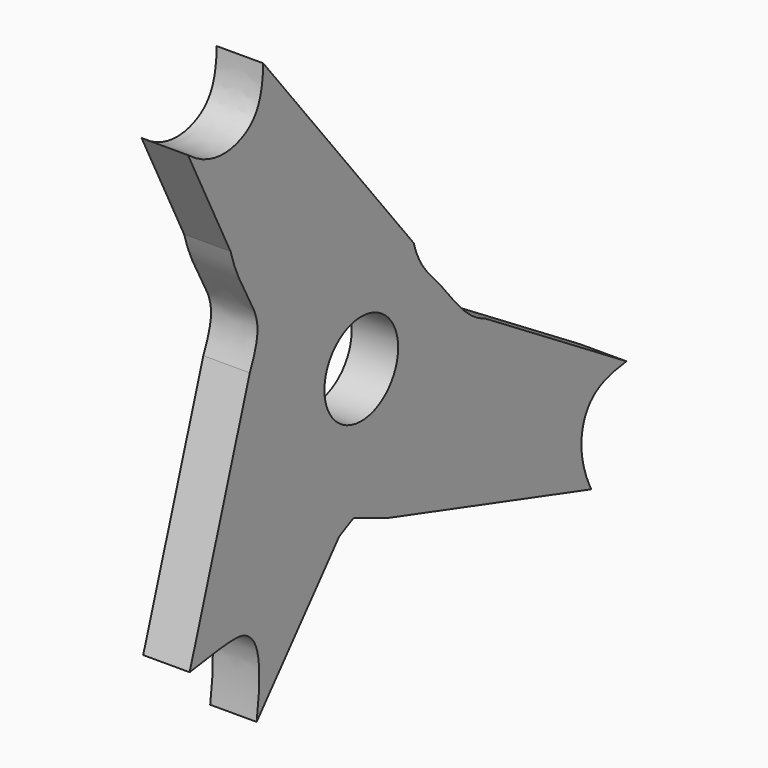
from build123d import *

# Parameters (mm, degrees)
F1_DEPTH = 12.7
F2_R     = 12.5952384753
F3_DEPTH = 12.7


with BuildPart() as f1:
    # F0 (on Right) → F1 (new body)
    with BuildSketch(Plane.YZ):
        with BuildLine():
            add(Edge.make_bspline(
                [(-57.3755726218, 60.9794743359), (-50.213151662, 55.4152866858), (-37.2366697029, 55.7418096569), (-31.8573741668, 63.5785382982), (-31.6838938743, 72.6575106382)],
                knots=[0, 0, 0, 0, 0.5161301104, 1, 1, 1, 1], degree=3))
            Line((-57.3755726218, 60.9794743359), (-42.8429059684, 31.9141410291))
            add(Edge.make_bspline(
                [(-36.2667675946, 0), (-34.2304695223, 4.5985213525), (-31.3995907567, 13.0121996142), (-40.343719866, 22.6597812459), (-42.8429059684, 31.9141410291)],
                knots=[0, 0, 0, 0, 0.4287022635, 1, 1, 1, 1], degree=3))
            Line((-36.2667675946, 0), (-56.8240570945, -63.699272458))
            add(Edge.make_bspline(
                [(-33.9242853224, -84.9647447467), (-31.6925561956, -70.080335482), (-35.9990572627, -60.9174321222), (-42.6189227408, -61.5948104869), (-56.8240570945, -63.699272458)],
                knots=[0, 0, 0, 0, 0.51017927, 1, 1, 1, 1], degree=3))
            Line((-33.9242853224, -84.9647447467), (-5.7011889294, -51.7937131226))
            add(Edge.make_bspline(
                [(10.6406565756, -54.0301650763), (6.3823924594, -52.4609805374), (-1.6627763206, -48.6585438271), (-0.9598822639, -49.5478302166), (-5.7011889294, -51.7937131226)],
                knots=[0, 0, 0, 0, 0.5787981071, 1, 1, 1, 1], degree=3))
            Line((10.6406565756, -54.0301650763), (80.4164707661, -75.4625424743))
            add(Edge.make_bspline(
                [(92.4523919821, -49.5390184224), (84.5183726601, -50.3969736232), (76.2899942249, -55.1051300096), (76.3544072931, -67.5799232364), (80.4164707661, -75.4625424743)],
                knots=[0, 0, 0, 0, 0.4758961852, 1, 1, 1, 1], degree=3))
            Line((92.4523919821, -49.5390184224), (44.148941397, -19.6030026067))
            add(Edge.make_bspline(
                [(19.77852609, 8.4459672519), (21.4932358048, 1.7455546836), (29.8932683418, -5.0282844876), (37.5500863975, -17.1425788423), (44.148941397, -19.6030026067)],
                knots=[0, 0, 0, 0, 0.4824482884, 1, 1, 1, 1], degree=3))
            Line((19.77852609, 8.4459672519), (-31.6838938743, 72.6575106382))
        make_face()
    extrude(amount=F1_DEPTH)

    # F2 (on face) → F3 (cut)
    with BuildSketch(Plane.YZ.offset(12.7)):
        with Locations((1.8296902999, -14.5234484226)):
            Circle(F2_R)
    extrude(amount=-F3_DEPTH, mode=Mode.SUBTRACT)


solid = f1.part
